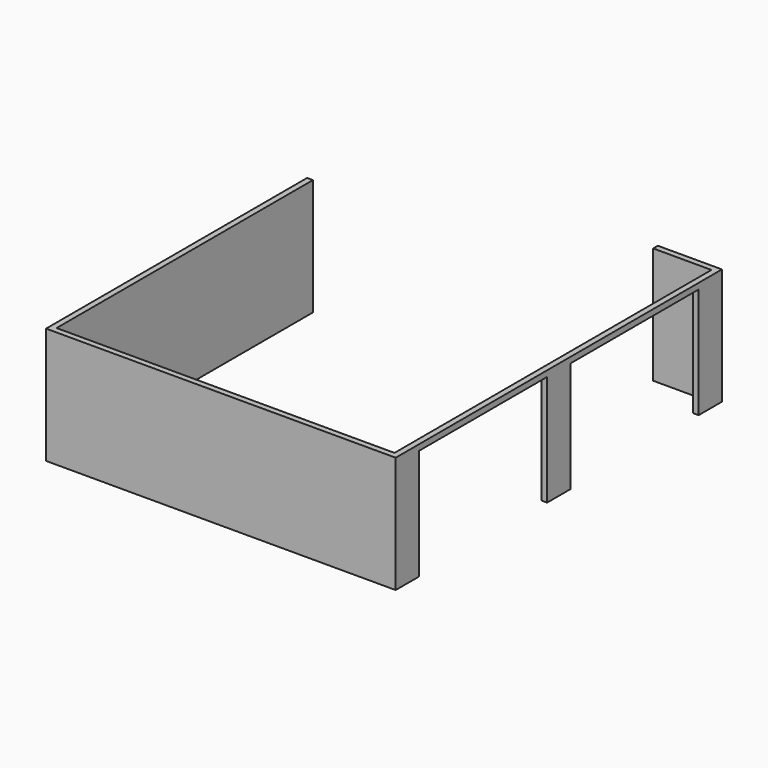
from build123d import *

# Parameters (mm, degrees)
F1_DEPTH = 2000
F2_W     = 100
F2_H     = 2750
F3_DEPTH = 1900


with BuildPart() as f1:
    # F0 (on Top) → F1 (new body)
    with BuildSketch(Plane.XY):
        Polygon((2450.153731, 3608.570844), (1350.153731, 3608.570844), (1350.153731, 3508.570844), (2350.153731, 3508.570844), (2350.153731, -3291.429156), (-3449.846269, -3291.429156), (-3449.846269, 2208.570844), (-3549.846269, 2208.570844), (-3549.846269, -3391.429156), (2450.153731, -3391.429156), align=None)
    extrude(amount=F1_DEPTH)

    # F2 (on face) → F3 (cut)
    with BuildSketch(Plane(origin=(0, 0, 0), x_dir=(1, 0, 0), z_dir=(0, 0, -1))):
        with Locations((2400.153731, -1733.570844)):
            Rectangle(F2_W, F2_H)
        with Locations((2400.153731, 1516.429156)):
            Rectangle(F2_W, F2_H)
    extrude(amount=-F3_DEPTH, mode=Mode.SUBTRACT)


solid = f1.part
